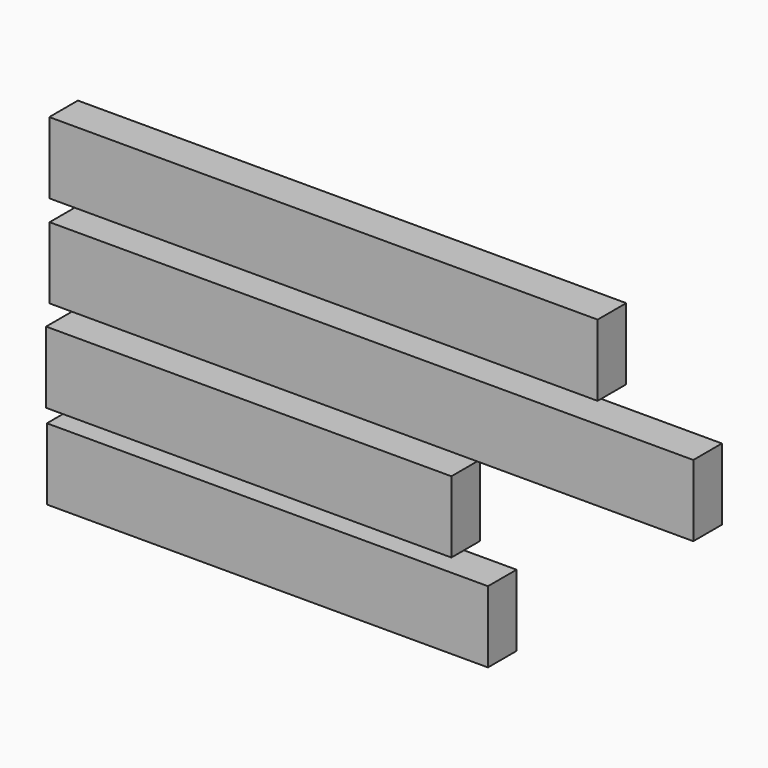
from build123d import *

# Parameters (mm, degrees)
F0_W     = 584.2
F0_H     = 76.2
F0_W_2   = 685.8
F0_W_3   = 431.8
F1_DEPTH = 38.1
F0_W_4   = 469.9
F2_DEPTH = 38.1


with BuildPart() as f1:
    # F0 (on Front) → F1 (new body)
    with BuildSketch(Plane.XZ):
        with Locations((228.111657, 120.105898)):
            Rectangle(F0_W, F0_H)
        with Locations((279.246337, 21.6287)):
            Rectangle(F0_W_2, F0_H)
        with Locations((148.505848, -77.494022)):
            Rectangle(F0_W_3, F0_H)
    extrude(amount=F1_DEPTH)


with BuildPart() as f2:
    # F0 (on Front) → F2 (new body)
    with BuildSketch(Plane.XZ):
        with Locations((168.4054, -167.921652)):
            Rectangle(F0_W_4, F0_H)
    extrude(amount=F2_DEPTH)


solid = Compound([f1.part, f2.part])
